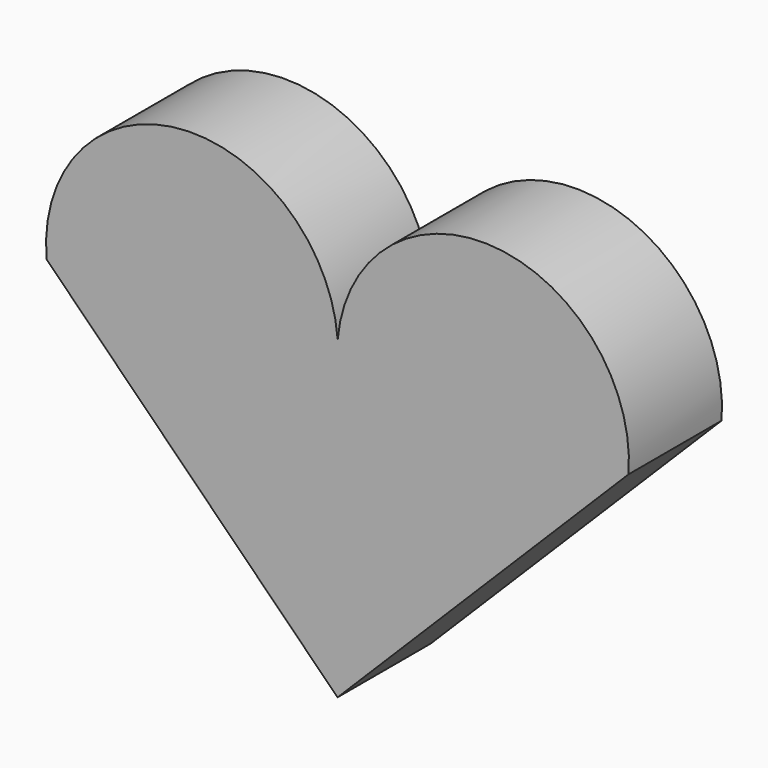
from build123d import *

# Parameters (mm, degrees)
F1_DEPTH = 2.54


with BuildPart() as f1:
    # F0 (on Front) → F1 (new body)
    with BuildSketch(Plane.XZ):
        with BuildLine():
            ThreePointArc((6.3527270327, 6.8730393128), (2.9132889801, 9.8067684212), (0, 6.35))
            Line((0, 6.35), (6.35, 0))
            Line((6.35, 0), (12.7, 6.35))
            ThreePointArc((12.7, 6.35), (9.7863374828, 9.7663986292), (6.3527270327, 6.8730393128))
        make_face()
        with BuildLine():
            ThreePointArc((6.3496264629, 6.35), (6.340419873, 6.611583423), (6.3527270327, 6.8730393128))
            ThreePointArc((6.3527270327, 6.8730393128), (6.3619244185, 6.6114559444), (6.3496264629, 6.35))
        make_face(mode=Mode.SUBTRACT)
        with BuildLine():
            ThreePointArc((6.3496264629, 6.35), (6.3619244185, 6.6114559444), (6.3527270327, 6.8730393128))
            ThreePointArc((6.3527270327, 6.8730393128), (6.340419873, 6.611583423), (6.3496264629, 6.35))
        make_face()
    extrude(amount=F1_DEPTH)


solid = f1.part
